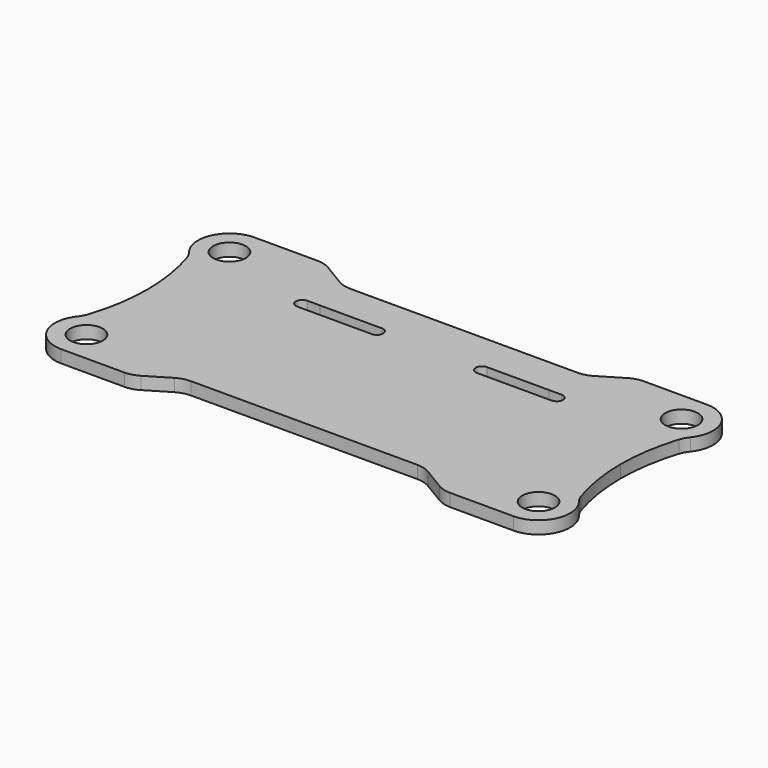
from build123d import *

# Parameters (mm, degrees)
F0_R     = 3.1
F1_DEPTH = 2.4
F3_R     = 5


with BuildPart() as f1:
    # F0 (on Top) → F1 (new body)
    with BuildSketch(Plane.XY):
        with BuildLine():
            ThreePointArc((-49.28070274, 28.4556998014), (-49.8292635669, 22.013644053), (-51.4566855291, 15.7564482751))
            ThreePointArc((-51.4566855291, 15.7564482751), (-52.8417128359, 9.1953601987), (-47.2807049618, 5.4481787499))
            Line((-47.2807049618, 5.4481787499), (-33.8807049618, 5.4481787499))
            Line((-33.8807049618, 5.4481787499), (-27.2140382951, 9.4481787499))
            Line((-27.2140382951, 9.4481787499), (-4.28070274, 9.4481787499))
            Line((-4.28070274, 9.4481787499), (-4.28070274, 11.4481787499))
            Line((-4.28070274, 11.4481787499), (-4.28070274, 45.4481766123))
            Line((-4.28070274, 45.4481766123), (-4.28070274, 47.4481766123))
            Line((-4.28070274, 47.4481766123), (-27.2831063748, 47.4481766123))
            Line((-27.2831063748, 47.4481766123), (-33.9495535553, 51.447781563))
            Line((-33.9495535553, 51.447781563), (-47.2118519247, 51.447781563))
            Line((-47.2118519247, 51.447781563), (-47.3495535553, 51.447781563))
            ThreePointArc((-47.3495535553, 51.447781563), (-52.8586646481, 47.6586835568), (-51.4406336464, 41.1244080183))
            ThreePointArc((-51.4406336464, 41.1244080183), (-49.8251900555, 34.8889789679), (-49.28070274, 28.4707419045))
            Line((-49.28070274, 28.4707419045), (-49.28070274, 28.4556998014))
        make_face()
        with Locations((-47.2807049618, 11.4481787499)):
            Circle(F0_R, mode=Mode.SUBTRACT)
        with Locations((-47.28070274, 45.4481766123)):
            Circle(F0_R, mode=Mode.SUBTRACT)
        with BuildLine():
            Line((-28.4305080615, 40.4512316858), (-26.08070274, 40.4481766123))
            Line((-26.08070274, 40.4481766123), (-14.28070274, 40.4481766123))
            ThreePointArc((-14.28070274, 40.4481766123), (-13.0807048557, 39.2481744965), (-14.2807069714, 38.0481766123))
            Line((-14.2807069714, 38.0481766123), (-26.0736386877, 38.0481974045))
            Line((-26.0736386877, 38.0481974045), (-26.0918883742, 38.0482287461))
            Line((-26.0918883742, 38.0482287461), (-28.4716546856, 38.0523157045))
            ThreePointArc((-28.4716546856, 38.0523157045), (-29.6805192393, 39.2728612272), (-28.4305080615, 40.4512316858))
        make_face(mode=Mode.SUBTRACT)
    extrude(amount=F1_DEPTH)

    # F2: F1 across face


with BuildPart() as f1_1:
    add(f1.part)
    add(f1.part.mirror(Plane(origin=(-4.28070274, 28.4481776811, 1.2), x_dir=(0, 1, 0), z_dir=(1, 0, 0))))

    # F3
    f3_edges = [f1_1.edges().sort_by_distance(p)[0] for p in [
        (-33.949554, 51.447782, 1.2),
        (-27.283106, 47.448177, 1.2),
        (18.721701, 47.448177, 1.2),
        (25.388148, 51.447782, 1.2),
        (-33.880705, 5.448179, 1.2),
        (-27.214038, 9.448179, 1.2),
        (18.652633, 9.448179, 1.2),
        (25.319299, 5.448179, 1.2),
        (-51.456686, 15.756448, 1.2),
        (-51.440634, 41.124408, 1.2),
        (42.89528, 15.756448, 1.2),
        (42.879228, 41.124408, 1.2),
    ]]
    fillet(f3_edges, radius=F3_R)


solid = f1_1.part
